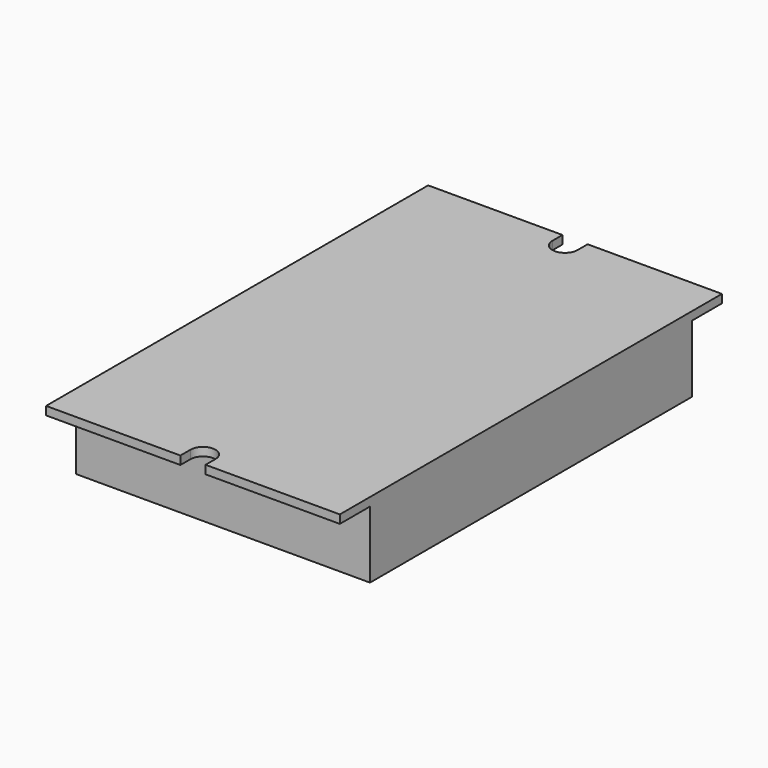
from build123d import *

# Parameters (mm, degrees)
F0_W     = 35.060902
F0_H     = 48
F1_DEPTH = 1
F2_DEPTH = 8


with BuildPart() as f1:
    # F0 (on Top) → F1 (new body)
    with BuildSketch(Plane.XY):
        with BuildLine():
            Line((-17.530451, 28.5), (-17.530451, 24))
            Line((-17.530451, 24), (17.530451, 24))
            Line((17.530451, 24), (17.530451, 28.5))
            Line((17.530451, 28.5), (1.5, 28.5))
            Line((1.5, 28.5), (1.5, 27))
            ThreePointArc((1.5, 27), (0, 25.5), (-1.5, 27))
            Line((-1.5, 27), (-1.5, 28.5))
            Line((-1.5, 28.5), (-17.530451, 28.5))
        make_face()
        Rectangle(F0_W, F0_H)
        with BuildLine():
            Line((-17.530451, -24), (-17.530451, -28.5))
            Line((-17.530451, -28.5), (-1.5, -28.5))
            Line((-1.5, -28.5), (-1.5, -27))
            ThreePointArc((-1.5, -27), (0, -25.5), (1.5, -27))
            Line((1.5, -27), (1.5, -28.5))
            Line((1.5, -28.5), (17.530451, -28.5))
            Line((17.530451, -28.5), (17.530451, -24))
            Line((17.530451, -24), (-17.530451, -24))
        make_face()
    extrude(amount=F1_DEPTH)

    # F0 (on Top) → F2 (join)
    with BuildSketch(Plane.XY):
        Rectangle(F0_W, F0_H)
    extrude(amount=-F2_DEPTH)


solid = f1.part
